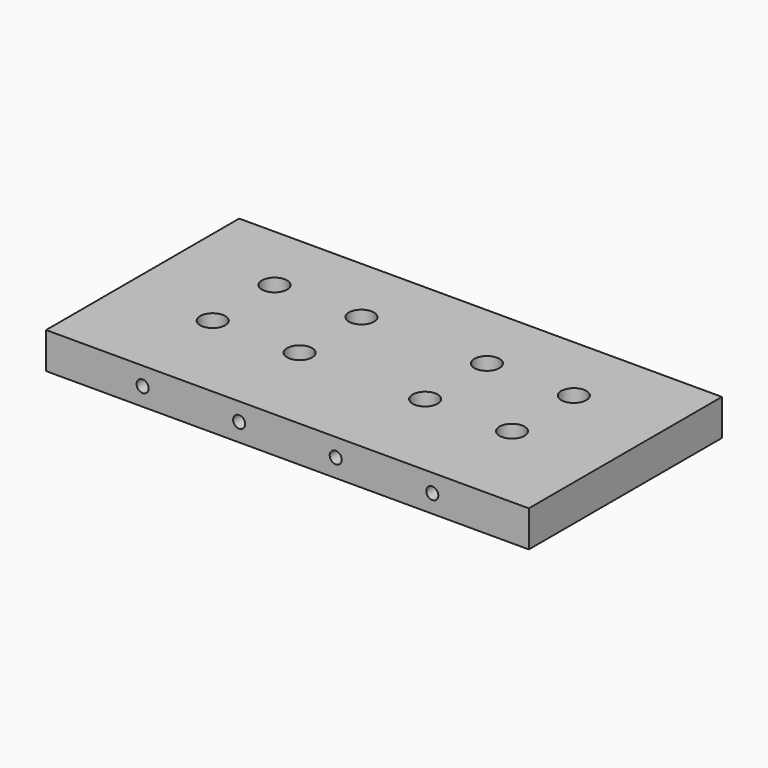
from build123d import *

# Parameters (mm, degrees)
SKETCH_W        = 200
SKETCH_H        = 100
PAD_DEPTH       = 15
SKETCH001_R     = 2.75
POCKET_DEPTH    = 15
SKETCH002_R     = 5.2
POCKET001_DEPTH = 6
SKETCH003_R     = 2.5
POCKET002_DEPTH = 25


with BuildPart() as part:
    # Sketch → Pad (new body)
    with BuildSketch(Plane.XY):
        with Locations((100, 50)):
            Rectangle(SKETCH_W, SKETCH_H)
    extrude(amount=PAD_DEPTH)

    # Sketch001 (on Face6 of Pad) → Pocket (cut)
    with BuildSketch(Plane.XY.offset(15)):
        with Locations((162, 70.8)):
            Circle(SKETCH001_R)
        with Locations((162, 38.8)):
            Circle(SKETCH001_R)
        with Locations((126, 70.8)):
            Circle(SKETCH001_R)
        with Locations((126, 38.8)):
            Circle(SKETCH001_R)
        with Locations((74, 70.8)):
            Circle(SKETCH001_R)
        with Locations((74, 38.8)):
            Circle(SKETCH001_R)
        with Locations((38, 70.8)):
            Circle(SKETCH001_R)
        with Locations((38, 38.8)):
            Circle(SKETCH001_R)
    extrude(amount=-POCKET_DEPTH, mode=Mode.SUBTRACT)

    # Sketch002 (on Face5 of Pocket) → Pocket001 (cut)
    with BuildSketch(Plane.XY.offset(15)):
        with Locations((38, 70.8)):
            Circle(SKETCH002_R)
        with Locations((38, 38.8)):
            Circle(SKETCH002_R)
        with Locations((74, 70.8)):
            Circle(SKETCH002_R)
        with Locations((74, 38.8)):
            Circle(SKETCH002_R)
        with Locations((126, 70.8)):
            Circle(SKETCH002_R)
        with Locations((126, 38.8)):
            Circle(SKETCH002_R)
        with Locations((162, 70.8)):
            Circle(SKETCH002_R)
        with Locations((162, 38.8)):
            Circle(SKETCH002_R)
    extrude(amount=-POCKET001_DEPTH, mode=Mode.SUBTRACT)

    # Sketch003 (on Face6 of Pocket001) → Pocket002 (cut)
    with BuildSketch(Plane.XZ):
        with Locations((40, 7.5)):
            Circle(SKETCH003_R)
        with Locations((80, 7.5)):
            Circle(SKETCH003_R)
        with Locations((120, 7.5)):
            Circle(SKETCH003_R)
        with Locations((160, 7.5)):
            Circle(SKETCH003_R)
    extrude(amount=-POCKET002_DEPTH, mode=Mode.SUBTRACT)


solid = part.part
